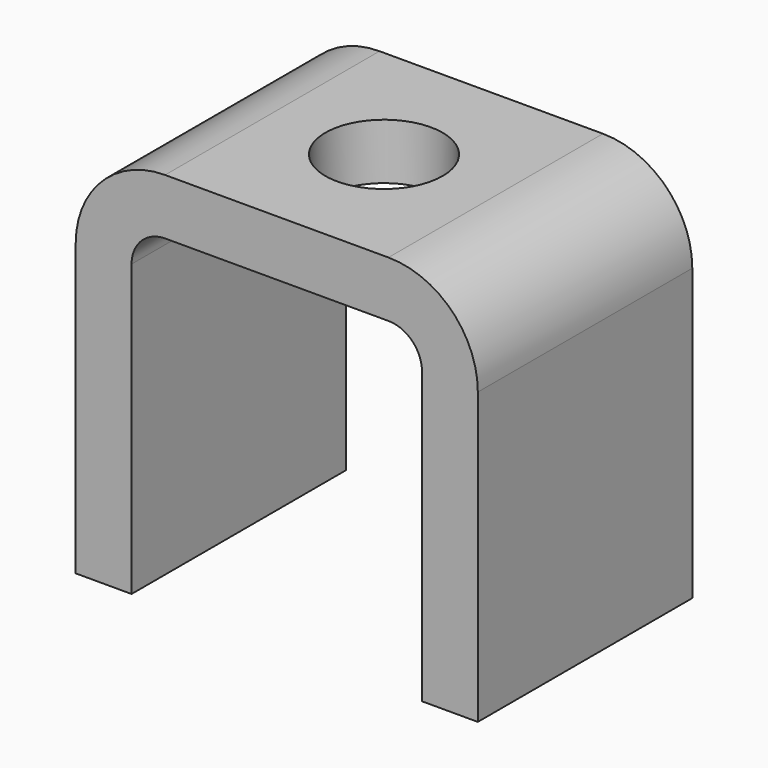
from build123d import *

# Parameters (mm, degrees)
F1_DEPTH = 38.1
F2_R     = 9.525
F3_R     = 25.4
F4_R     = 16.66875
F5_DEPTH = 25.4


with BuildPart() as f1:
    # F0 (on Front) → F1 (new body, symmetric)
    with BuildSketch(Plane.XZ):
        Polygon((-41.275, 46.0375), (41.275, 46.0375), (41.275, -46.0375), (57.15, -46.0375), (57.15, 46.0375), (57.15, 61.9125), (41.275, 61.9125), (-41.275, 61.9125), (-57.15, 61.9125), (-57.15, 46.0375), (-57.15, -46.0375), (-41.275, -46.0375), align=None)
    extrude(amount=F1_DEPTH, both=True)

    # F2
    f2_edges = [f1.edges().sort_by_distance(p)[0] for p in [
        (-41.275, 0, 46.0375),
        (41.275, 0, 46.0375),
    ]]
    fillet(f2_edges, radius=F2_R)

    # F3
    f3_edges = [f1.edges().sort_by_distance(p)[0] for p in [
        (-57.15, 0, 61.9125),
        (57.15, 0, 61.9125),
    ]]
    fillet(f3_edges, radius=F3_R)

    # F4 (on face) → F5 (cut)
    with BuildSketch(Plane.XY.offset(61.9125)):
        Circle(F4_R)
    extrude(amount=-F5_DEPTH, mode=Mode.SUBTRACT)


solid = f1.part
